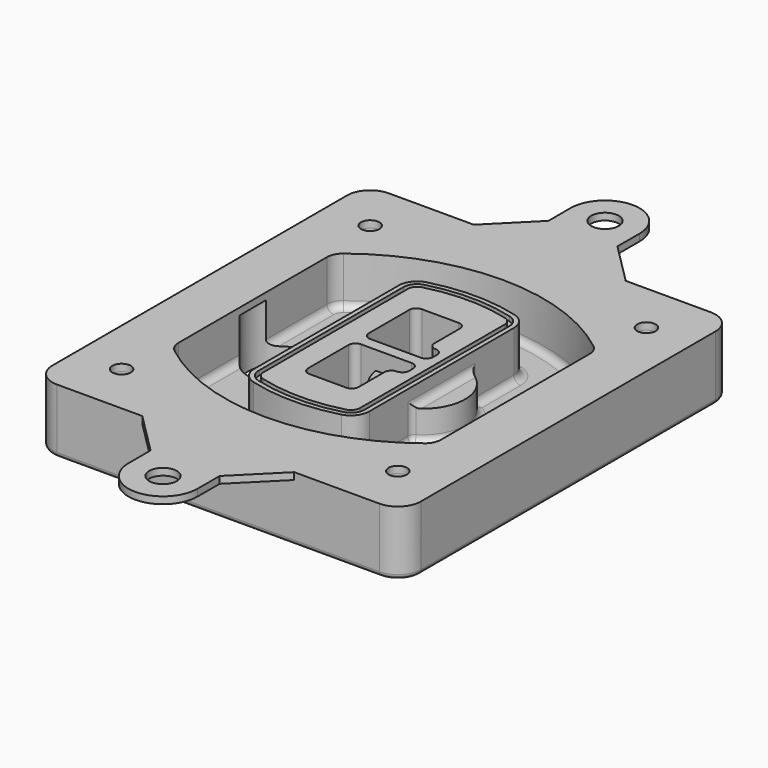
from build123d import *

# Parameters (mm, degrees)
F0_R      = 4
F1_DEPTH  = 25
F2_DEPTH  = 3
F3_DEPTH  = 18
F5_DEPTH  = 21
F6_DEPTH  = 2
F8_DEPTH  = 20
F9_DEPTH  = 16
F10_DEPTH = 25
F7_R      = 6
F7_R_2    = 4
F11_DEPTH = 6
F13_DEPTH = 9
F14_R     = 3
F15_R     = 2
F16_R     = 6
F16_R_2   = 4
F17_DEPTH = 3


with BuildPart() as f1:
    # F0 (on Top) → F1 (new body)
    with BuildSketch(Plane.XY):
        with BuildLine():
            ThreePointArc((-80, -80), (-77.0710678119, -87.0710678119), (-70, -90))
            Line((-70, -90), (70, -90))
            ThreePointArc((70, -90), (77.0710678119, -87.0710678119), (80, -80))
            Line((80, -80), (80, 80))
            ThreePointArc((80, 80), (77.0710678119, 87.0710678119), (70, 90))
            Line((70, 90), (-70, 90))
            ThreePointArc((-70, 90), (-77.0710678119, 87.0710678119), (-80, 80))
            Line((-80, 80), (-80, -80))
        make_face()
        with Locations((-60, -67.5)):
            Circle(F0_R, mode=Mode.SUBTRACT)
        with Locations((60, -67.5)):
            Circle(F0_R, mode=Mode.SUBTRACT)
        with Locations((-60, 67.5)):
            Circle(F0_R, mode=Mode.SUBTRACT)
        with BuildLine():
            ThreePointArc((-64, 40.2934422872), (-62.5820384798, 46.4328484224), (-58.6153846154, 51.3286200352))
            ThreePointArc((-58.6153846154, 51.3286200352), (0, 71.5), (58.6153846154, 51.3286200352))
            ThreePointArc((58.6153846154, 51.3286200352), (62.5820384798, 46.4328484224), (64, 40.2934422872))
            Line((64, 40.2934422872), (64, -40.2934422872))
            ThreePointArc((64, -40.2934422872), (62.5820384798, -46.4328484224), (58.6153846154, -51.3286200352))
            ThreePointArc((58.6153846154, -51.3286200352), (0, -71.5), (-58.6153846154, -51.3286200352))
            ThreePointArc((-58.6153846154, -51.3286200352), (-62.5820384798, -46.4328484224), (-64, -40.2934422872))
            Line((-64, -40.2934422872), (-64, 40.2934422872))
        make_face(mode=Mode.SUBTRACT)
        with Locations((60, 67.5)):
            Circle(F0_R, mode=Mode.SUBTRACT)
        with BuildLine():
            ThreePointArc((58.6153846154, 51.3286200352), (0, 71.5), (-58.6153846154, 51.3286200352))
            ThreePointArc((-58.6153846154, 51.3286200352), (-62.5820384798, 46.4328484224), (-64, 40.2934422872))
            Line((-64, 40.2934422872), (-64, -40.2934422872))
            ThreePointArc((-64, -40.2934422872), (-62.5820384798, -46.4328484224), (-58.6153846154, -51.3286200352))
            ThreePointArc((-58.6153846154, -51.3286200352), (0, -71.5), (58.6153846154, -51.3286200352))
            ThreePointArc((58.6153846154, -51.3286200352), (62.5820384798, -46.4328484224), (64, -40.2934422872))
            Line((64, -40.2934422872), (64, 40.2934422872))
            ThreePointArc((64, 40.2934422872), (62.5820384798, 46.4328484224), (58.6153846154, 51.3286200352))
        make_face()
        with BuildLine():
            Line((-60, -40.2934422872), (-60, 40.2934422872))
            ThreePointArc((-60, 40.2934422872), (-58.9871703427, 44.6787323838), (-56.1538461538, 48.1757121072))
            ThreePointArc((-56.1538461538, 48.1757121072), (0, 67.5), (56.1538461538, 48.1757121072))
            ThreePointArc((56.1538461538, 48.1757121072), (58.9871703427, 44.6787323838), (60, 40.2934422872))
            Line((60, 40.2934422872), (60, -40.2934422872))
            ThreePointArc((60, -40.2934422872), (58.9871703427, -44.6787323838), (56.1538461538, -48.1757121072))
            ThreePointArc((56.1538461538, -48.1757121072), (0, -67.5), (-56.1538461538, -48.1757121072))
            ThreePointArc((-56.1538461538, -48.1757121072), (-58.9871703427, -44.6787323838), (-60, -40.2934422872))
        make_face(mode=Mode.SUBTRACT)
        with BuildLine():
            ThreePointArc((-56.1538461538, 48.1757121072), (-58.9871703427, 44.6787323838), (-60, 40.2934422872))
            Line((-60, 40.2934422872), (-60, -40.2934422872))
            ThreePointArc((-60, -40.2934422872), (-58.9871703427, -44.6787323838), (-56.1538461538, -48.1757121072))
            ThreePointArc((-56.1538461538, -48.1757121072), (0, -67.5), (56.1538461538, -48.1757121072))
            ThreePointArc((56.1538461538, -48.1757121072), (58.9871703427, -44.6787323838), (60, -40.2934422872))
            Line((60, -40.2934422872), (60, 40.2934422872))
            ThreePointArc((60, 40.2934422872), (58.9871703427, 44.6787323838), (56.1538461538, 48.1757121072))
            ThreePointArc((56.1538461538, 48.1757121072), (0, 67.5), (-56.1538461538, 48.1757121072))
        make_face()
        with BuildLine():
            ThreePointArc((54.3076923077, 45.8110311612), (56.2910192399, 43.3631453548), (57, 40.2934422872))
            Line((57, 40.2934422872), (57, -40.2934422872))
            ThreePointArc((57, -40.2934422872), (56.2910192399, -43.3631453548), (54.3076923077, -45.8110311612))
            ThreePointArc((54.3076923077, -45.8110311612), (0, -64.5), (-54.3076923077, -45.8110311612))
            ThreePointArc((-54.3076923077, -45.8110311612), (-56.2910192399, -43.3631453548), (-57, -40.2934422872))
            Line((-57, -40.2934422872), (-57, 40.2934422872))
            ThreePointArc((-57, 40.2934422872), (-56.2910192399, 43.3631453548), (-54.3076923077, 45.8110311612))
            ThreePointArc((-54.3076923077, 45.8110311612), (0, 64.5), (54.3076923077, 45.8110311612))
        make_face(mode=Mode.SUBTRACT)
        with BuildLine():
            Line((57, -40.2934422872), (57, 40.2934422872))
            ThreePointArc((57, 40.2934422872), (56.2910192399, 43.3631453548), (54.3076923077, 45.8110311612))
            ThreePointArc((54.3076923077, 45.8110311612), (0, 64.5), (-54.3076923077, 45.8110311612))
            ThreePointArc((-54.3076923077, 45.8110311612), (-56.2910192399, 43.3631453548), (-57, 40.2934422872))
            Line((-57, 40.2934422872), (-57, -40.2934422872))
            ThreePointArc((-57, -40.2934422872), (-56.2910192399, -43.3631453548), (-54.3076923077, -45.8110311612))
            ThreePointArc((-54.3076923077, -45.8110311612), (0, -64.5), (54.3076923077, -45.8110311612))
            ThreePointArc((54.3076923077, -45.8110311612), (56.2910192399, -43.3631453548), (57, -40.2934422872))
        make_face()
    extrude(amount=-F1_DEPTH)

    # F0 (on Top) → F2 (join)
    with BuildSketch(Plane.XY):
        with BuildLine():
            ThreePointArc((-56.1538461538, 48.1757121072), (-58.9871703427, 44.6787323838), (-60, 40.2934422872))
            Line((-60, 40.2934422872), (-60, -40.2934422872))
            ThreePointArc((-60, -40.2934422872), (-58.9871703427, -44.6787323838), (-56.1538461538, -48.1757121072))
            ThreePointArc((-56.1538461538, -48.1757121072), (0, -67.5), (56.1538461538, -48.1757121072))
            ThreePointArc((56.1538461538, -48.1757121072), (58.9871703427, -44.6787323838), (60, -40.2934422872))
            Line((60, -40.2934422872), (60, 40.2934422872))
            ThreePointArc((60, 40.2934422872), (58.9871703427, 44.6787323838), (56.1538461538, 48.1757121072))
            ThreePointArc((56.1538461538, 48.1757121072), (0, 67.5), (-56.1538461538, 48.1757121072))
        make_face()
        with BuildLine():
            ThreePointArc((54.3076923077, 45.8110311612), (56.2910192399, 43.3631453548), (57, 40.2934422872))
            Line((57, 40.2934422872), (57, -40.2934422872))
            ThreePointArc((57, -40.2934422872), (56.2910192399, -43.3631453548), (54.3076923077, -45.8110311612))
            ThreePointArc((54.3076923077, -45.8110311612), (0, -64.5), (-54.3076923077, -45.8110311612))
            ThreePointArc((-54.3076923077, -45.8110311612), (-56.2910192399, -43.3631453548), (-57, -40.2934422872))
            Line((-57, -40.2934422872), (-57, 40.2934422872))
            ThreePointArc((-57, 40.2934422872), (-56.2910192399, 43.3631453548), (-54.3076923077, 45.8110311612))
            ThreePointArc((-54.3076923077, 45.8110311612), (0, 64.5), (54.3076923077, 45.8110311612))
        make_face(mode=Mode.SUBTRACT)
    extrude(amount=F2_DEPTH)

    # F0 (on Top) → F3 (cut)
    with BuildSketch(Plane.XY):
        with BuildLine():
            Line((57, -40.2934422872), (57, 40.2934422872))
            ThreePointArc((57, 40.2934422872), (56.2910192399, 43.3631453548), (54.3076923077, 45.8110311612))
            ThreePointArc((54.3076923077, 45.8110311612), (0, 64.5), (-54.3076923077, 45.8110311612))
            ThreePointArc((-54.3076923077, 45.8110311612), (-56.2910192399, 43.3631453548), (-57, 40.2934422872))
            Line((-57, 40.2934422872), (-57, -40.2934422872))
            ThreePointArc((-57, -40.2934422872), (-56.2910192399, -43.3631453548), (-54.3076923077, -45.8110311612))
            ThreePointArc((-54.3076923077, -45.8110311612), (0, -64.5), (54.3076923077, -45.8110311612))
            ThreePointArc((54.3076923077, -45.8110311612), (56.2910192399, -43.3631453548), (57, -40.2934422872))
        make_face()
    extrude(amount=-F3_DEPTH, mode=Mode.SUBTRACT)

    # F4 (on face) → F5 (join, through all)
    with BuildSketch(Plane.XY.offset(3)):
        with BuildLine():
            ThreePointArc((-25, -39.2465276821), (-23.3511545998, -44.1109737193), (-19.0842911877, -46.9702398883))
            ThreePointArc((-19.0842911877, -46.9702398883), (0, -49.5), (19.0842911877, -46.9702398883))
            ThreePointArc((19.0842911877, -46.9702398883), (23.3511545998, -44.1109737193), (25, -39.2465276821))
            Line((25, -39.2465276821), (25, 39.2465276821))
            ThreePointArc((25, 39.2465276821), (23.3511545998, 44.1109737193), (19.0842911877, 46.9702398883))
            ThreePointArc((19.0842911877, 46.9702398883), (0, 49.5), (-19.0842911877, 46.9702398883))
            ThreePointArc((-19.0842911877, 46.9702398883), (-23.3511545998, 44.1109737193), (-25, 39.2465276821))
            Line((-25, 39.2465276821), (-25, -39.2465276821))
        make_face()
        with BuildLine():
            ThreePointArc((18.5632183908, 45.0393118368), (21.7633659499, 42.89486221), (23, 39.2465276821))
            Line((23, 39.2465276821), (23, -39.2465276821))
            ThreePointArc((23, -39.2465276821), (21.7633659499, -42.89486221), (18.5632183908, -45.0393118368))
            ThreePointArc((18.5632183908, -45.0393118368), (0, -47.5), (-18.5632183908, -45.0393118368))
            ThreePointArc((-18.5632183908, -45.0393118368), (-21.7633659499, -42.89486221), (-23, -39.2465276821))
            Line((-23, -39.2465276821), (-23, 39.2465276821))
            ThreePointArc((-23, 39.2465276821), (-21.7633659499, 42.89486221), (-18.5632183908, 45.0393118368))
            ThreePointArc((-18.5632183908, 45.0393118368), (0, 47.5), (18.5632183908, 45.0393118368))
        make_face(mode=Mode.SUBTRACT)
        with BuildLine():
            Line((23, -39.2465276821), (23, 39.2465276821))
            ThreePointArc((23, 39.2465276821), (21.7633659499, 42.89486221), (18.5632183908, 45.0393118368))
            ThreePointArc((18.5632183908, 45.0393118368), (0, 47.5), (-18.5632183908, 45.0393118368))
            ThreePointArc((-18.5632183908, 45.0393118368), (-21.7633659499, 42.89486221), (-23, 39.2465276821))
            Line((-23, 39.2465276821), (-23, -39.2465276821))
            ThreePointArc((-23, -39.2465276821), (-21.7633659499, -42.89486221), (-18.5632183908, -45.0393118368))
            ThreePointArc((-18.5632183908, -45.0393118368), (0, -47.5), (18.5632183908, -45.0393118368))
            ThreePointArc((18.5632183908, -45.0393118368), (21.7633659499, -42.89486221), (23, -39.2465276821))
        make_face()
        with BuildLine():
            ThreePointArc((18.0421455939, 43.1083837852), (20.1755772999, 41.6787507007), (21, 39.2465276821))
            Line((21, 39.2465276821), (21, -39.2465276821))
            ThreePointArc((21, -39.2465276821), (20.1755772999, -41.6787507007), (18.0421455939, -43.1083837852))
            ThreePointArc((18.0421455939, -43.1083837852), (0, -45.5), (-18.0421455939, -43.1083837852))
            ThreePointArc((-18.0421455939, -43.1083837852), (-20.1755772999, -41.6787507007), (-21, -39.2465276821))
            Line((-21, -39.2465276821), (-21, 39.2465276821))
            ThreePointArc((-21, 39.2465276821), (-20.1755772999, 41.6787507007), (-18.0421455939, 43.1083837852))
            ThreePointArc((-18.0421455939, 43.1083837852), (0, 45.5), (18.0421455939, 43.1083837852))
        make_face(mode=Mode.SUBTRACT)
        with BuildLine():
            Line((21, -39.2465276821), (21, 39.2465276821))
            ThreePointArc((21, 39.2465276821), (20.1755772999, 41.6787507007), (18.0421455939, 43.1083837852))
            ThreePointArc((18.0421455939, 43.1083837852), (0, 45.5), (-18.0421455939, 43.1083837852))
            ThreePointArc((-18.0421455939, 43.1083837852), (-20.1755772999, 41.6787507007), (-21, 39.2465276821))
            Line((-21, 39.2465276821), (-21, -39.2465276821))
            ThreePointArc((-21, -39.2465276821), (-20.1755772999, -41.6787507007), (-18.0421455939, -43.1083837852))
            ThreePointArc((-18.0421455939, -43.1083837852), (0, -45.5), (18.0421455939, -43.1083837852))
            ThreePointArc((18.0421455939, -43.1083837852), (20.1755772999, -41.6787507007), (21, -39.2465276821))
        make_face()
        with BuildLine():
            Line((-8, -2.5), (14, -2.5))
            ThreePointArc((14, -2.5), (16.1213203436, -3.3786796564), (17, -5.5))
            Line((17, -5.5), (17, -7.5))
            ThreePointArc((17, -7.5), (16.1213203436, -9.6213203436), (14, -10.5))
            ThreePointArc((14, -10.5), (11.8786796564, -11.3786796564), (11, -13.5))
            Line((11, -13.5), (11, -27.5))
            ThreePointArc((11, -27.5), (10.1213203436, -29.6213203436), (8, -30.5))
            Line((8, -30.5), (-8, -30.5))
            ThreePointArc((-8, -30.5), (-10.1213203436, -29.6213203436), (-11, -27.5))
            Line((-11, -27.5), (-11, -5.5))
            ThreePointArc((-11, -5.5), (-10.1213203436, -3.3786796564), (-8, -2.5))
        make_face(mode=Mode.SUBTRACT)
        with BuildLine():
            ThreePointArc((-8, 2.5), (-10.1213203436, 3.3786796564), (-11, 5.5))
            Line((-11, 5.5), (-11, 27.5))
            ThreePointArc((-11, 27.5), (-10.1213203436, 29.6213203436), (-8, 30.5))
            Line((-8, 30.5), (8, 30.5))
            ThreePointArc((8, 30.5), (10.1213203436, 29.6213203436), (11, 27.5))
            Line((11, 27.5), (11, 13.5))
            ThreePointArc((11, 13.5), (11.8786796564, 11.3786796564), (14, 10.5))
            ThreePointArc((14, 10.5), (16.1213203436, 9.6213203436), (17, 7.5))
            Line((17, 7.5), (17, 5.5))
            ThreePointArc((17, 5.5), (16.1213203436, 3.3786796564), (14, 2.5))
            Line((14, 2.5), (-8, 2.5))
        make_face(mode=Mode.SUBTRACT)
    extrude(amount=-F5_DEPTH)

    # F4 (on face) → F6 (cut)
    with BuildSketch(Plane.XY.offset(3)):
        with BuildLine():
            Line((23, -39.2465276821), (23, 39.2465276821))
            ThreePointArc((23, 39.2465276821), (21.7633659499, 42.89486221), (18.5632183908, 45.0393118368))
            ThreePointArc((18.5632183908, 45.0393118368), (0, 47.5), (-18.5632183908, 45.0393118368))
            ThreePointArc((-18.5632183908, 45.0393118368), (-21.7633659499, 42.89486221), (-23, 39.2465276821))
            Line((-23, 39.2465276821), (-23, -39.2465276821))
            ThreePointArc((-23, -39.2465276821), (-21.7633659499, -42.89486221), (-18.5632183908, -45.0393118368))
            ThreePointArc((-18.5632183908, -45.0393118368), (0, -47.5), (18.5632183908, -45.0393118368))
            ThreePointArc((18.5632183908, -45.0393118368), (21.7633659499, -42.89486221), (23, -39.2465276821))
        make_face()
        with BuildLine():
            ThreePointArc((18.0421455939, 43.1083837852), (20.1755772999, 41.6787507007), (21, 39.2465276821))
            Line((21, 39.2465276821), (21, -39.2465276821))
            ThreePointArc((21, -39.2465276821), (20.1755772999, -41.6787507007), (18.0421455939, -43.1083837852))
            ThreePointArc((18.0421455939, -43.1083837852), (0, -45.5), (-18.0421455939, -43.1083837852))
            ThreePointArc((-18.0421455939, -43.1083837852), (-20.1755772999, -41.6787507007), (-21, -39.2465276821))
            Line((-21, -39.2465276821), (-21, 39.2465276821))
            ThreePointArc((-21, 39.2465276821), (-20.1755772999, 41.6787507007), (-18.0421455939, 43.1083837852))
            ThreePointArc((-18.0421455939, 43.1083837852), (0, 45.5), (18.0421455939, 43.1083837852))
        make_face(mode=Mode.SUBTRACT)
    extrude(amount=-F6_DEPTH, mode=Mode.SUBTRACT)

    # F7 (on face) → F8 (join)
    with BuildSketch(Plane(origin=(0, 0, -25), x_dir=(1, 0, 0), z_dir=(0, 0, -1))):
        with BuildLine():
            ThreePointArc((3.28842436, 0), (16.7567035675, 13.4682792075), (30.224982775, 0))
            Line((30.224982775, 0), (35.224982775, 0))
            ThreePointArc((35.224982775, 0), (16.7567035675, 18.4682792075), (-1.71157564, 0))
            Line((-1.71157564, 0), (3.28842436, 0))
        make_face()
        with BuildLine():
            Line((3.28842436, 0), (30.224982775, 0))
            ThreePointArc((30.224982775, 0), (16.7567035675, 13.4682792075), (3.28842436, 0))
        make_face()
        with BuildLine():
            ThreePointArc((3.28842436, 0), (16.7567035675, -13.4682792075), (30.224982775, 0))
            Line((30.224982775, 0), (3.28842436, 0))
        make_face()
        with BuildLine():
            Line((35.224982775, 0), (30.224982775, 0))
            ThreePointArc((30.224982775, 0), (16.7567035675, -13.4682792075), (3.28842436, 0))
            Line((3.28842436, 0), (-1.71157564, 0))
            ThreePointArc((-1.71157564, 0), (16.7567035675, -18.4682792075), (35.224982775, 0))
        make_face()
    extrude(amount=-F8_DEPTH)

    # F7 (on face) → F9 (cut)
    with BuildSketch(Plane(origin=(0, 0, -25), x_dir=(1, 0, 0), z_dir=(0, 0, -1))):
        with BuildLine():
            Line((3.28842436, 0), (30.224982775, 0))
            ThreePointArc((30.224982775, 0), (16.7567035675, 13.4682792075), (3.28842436, 0))
        make_face()
        with BuildLine():
            ThreePointArc((3.28842436, 0), (16.7567035675, -13.4682792075), (30.224982775, 0))
            Line((30.224982775, 0), (3.28842436, 0))
        make_face()
    extrude(amount=-F9_DEPTH, mode=Mode.SUBTRACT)

    # F7 (on face) → F10 (cut)
    with BuildSketch(Plane(origin=(0, 0, -25), x_dir=(1, 0, 0), z_dir=(0, 0, -1))):
        with BuildLine():
            Line((-59.0318229325, 0), (-32.0952645175, 0))
            ThreePointArc((-32.0952645175, 0), (-45.563543725, 13.4682792075), (-59.0318229325, 0))
        make_face()
        with BuildLine():
            ThreePointArc((-59.0318229325, 0), (-45.563543725, -13.4682792075), (-32.0952645175, 0))
            Line((-32.0952645175, 0), (-59.0318229325, 0))
        make_face()
    extrude(amount=-F10_DEPTH, mode=Mode.SUBTRACT)

    # F7 (on face) → F11 (cut)
    with BuildSketch(Plane(origin=(0, 0, -25), x_dir=(1, 0, 0), z_dir=(0, 0, -1))):
        with Locations((60, -67.5)):
            Circle(F7_R)
        with Locations((60, -67.5)):
            Circle(F7_R_2, mode=Mode.SUBTRACT)
        with Locations((60, -67.5)):
            Circle(F7_R)
        with Locations((60, -67.5)):
            Circle(F7_R_2, mode=Mode.SUBTRACT)
        with Locations((-60, -67.5)):
            Circle(F7_R)
        with Locations((-60, -67.5)):
            Circle(F7_R_2, mode=Mode.SUBTRACT)
        with Locations((-60, -67.5)):
            Circle(F7_R)
        with Locations((-60, -67.5)):
            Circle(F7_R_2, mode=Mode.SUBTRACT)
        with Locations((-60, 67.5)):
            Circle(F7_R)
        with Locations((-60, 67.5)):
            Circle(F7_R_2, mode=Mode.SUBTRACT)
        with Locations((-60, 67.5)):
            Circle(F7_R)
        with Locations((-60, 67.5)):
            Circle(F7_R_2, mode=Mode.SUBTRACT)
        with Locations((60, 67.5)):
            Circle(F7_R)
        with Locations((60, 67.5)):
            Circle(F7_R_2, mode=Mode.SUBTRACT)
        with Locations((60, 67.5)):
            Circle(F7_R)
        with Locations((60, 67.5)):
            Circle(F7_R_2, mode=Mode.SUBTRACT)
    extrude(amount=-F11_DEPTH, mode=Mode.SUBTRACT)

    # F12 (on face) → F13 (cut, through all)
    with BuildSketch(Plane(origin=(0, 0, -9), x_dir=(1, 0, 0), z_dir=(0, 0, -1))):
        with BuildLine():
            Line((11, 13.5), (11, 17.5481537753))
            ThreePointArc((11, 17.5481537753), (2.5696536419, 11.8239143813), (-1.5415842455, 2.5))
            Line((-1.5415842455, 2.5), (3.5224848595, 2.5))
            ThreePointArc((3.5224848595, 2.5), (6.1857188154, 8.3455872281), (11.2536447004, 12.2927168648))
            ThreePointArc((11.2536447004, 12.2927168648), (11.0640958889, 12.8831798879), (11, 13.5))
        make_face()
        with BuildLine():
            ThreePointArc((11.2536447004, -12.2927168648), (6.1857188154, -8.3455872281), (3.5224848595, -2.5))
            Line((3.5224848595, -2.5), (-1.5415842455, -2.5))
            ThreePointArc((-1.5415842455, -2.5), (2.5696536419, -11.8239143813), (11, -17.5481537753))
            Line((11, -17.5481537753), (11, -13.5))
            ThreePointArc((11, -13.5), (11.0640958889, -12.8831798879), (11.2536447004, -12.2927168648))
        make_face()
        with BuildLine():
            ThreePointArc((11.2536447004, 12.2927168648), (6.1857188154, 8.3455872281), (3.5224848595, 2.5))
            Line((3.5224848595, 2.5), (14, 2.5))
            ThreePointArc((14, 2.5), (16.1213203436, 3.3786796564), (17, 5.5))
            Line((17, 5.5), (17, 7.5))
            ThreePointArc((17, 7.5), (16.1213203436, 9.6213203436), (14, 10.5))
            ThreePointArc((14, 10.5), (12.3601599782, 10.9878446101), (11.2536447004, 12.2927168648))
        make_face()
        with BuildLine():
            Line((14, -2.5), (3.5224848595, -2.5))
            ThreePointArc((3.5224848595, -2.5), (6.1857188154, -8.3455872281), (11.2536447004, -12.2927168648))
            ThreePointArc((11.2536447004, -12.2927168648), (12.3601599782, -10.9878446101), (14, -10.5))
            ThreePointArc((14, -10.5), (16.1213203436, -9.6213203436), (17, -7.5))
            Line((17, -7.5), (17, -5.5))
            ThreePointArc((17, -5.5), (16.1213203436, -3.3786796564), (14, -2.5))
        make_face()
    extrude(amount=F13_DEPTH, mode=Mode.SUBTRACT)

    # F14
    f14_edges = [f1.edges().sort_by_distance(p)[0] for p in [
        (-57, -23.703476, -18),
        (-57, 23.703476, -18),
        (25, 0, -5),
        (25, 16.526506, -11.5),
        (25, -16.526506, -11.5),
        (25, -27.886517, -18),
        (35.224983, 0, -18),
    ]]
    fillet(f14_edges, radius=F14_R)

    # F15
    f15_edges = [f1.edges().sort_by_distance(p)[0] for p in [
        (0, -90, -25),
    ]]
    fillet(f15_edges, radius=F15_R)

    # F16 (on face) → F17 (join, through all)
    with BuildSketch(Plane.XY):
        with BuildLine():
            Line((15, -108), (33, -90))
            Line((33, -90), (-33, -90))
            Line((-33, -90), (-15, -108))
            Line((-15, -108), (-15, -120))
            ThreePointArc((-15, -120), (0, -135), (15, -120))
            Line((15, -120), (15, -108))
        make_face()
        with Locations((0, -120)):
            Circle(F16_R, mode=Mode.SUBTRACT)
        with BuildLine():
            Line((15, 108), (15, 120))
            ThreePointArc((15, 120), (0, 135), (-15, 120))
            Line((-15, 120), (-15, 108))
            Line((-15, 108), (-33, 90))
            Line((-33, 90), (33, 90))
            Line((33, 90), (15, 108))
        make_face()
        with Locations((0, 120)):
            Circle(F16_R, mode=Mode.SUBTRACT)
        with BuildLine():
            Line((70, 90), (33, 90))
            Line((33, 90), (-33, 90))
            Line((-33, 90), (-70, 90))
            ThreePointArc((-70, 90), (-77.0710678119, 87.0710678119), (-80, 80))
            Line((-80, 80), (-80, -80))
            ThreePointArc((-80, -80), (-77.0710678119, -87.0710678119), (-70, -90))
            Line((-70, -90), (-33, -90))
            Line((-33, -90), (33, -90))
            Line((33, -90), (70, -90))
            ThreePointArc((70, -90), (77.0710678119, -87.0710678119), (80, -80))
            Line((80, -80), (80, 80))
            ThreePointArc((80, 80), (77.0710678119, 87.0710678119), (70, 90))
        make_face()
        with Locations((-60, -67.5)):
            Circle(F16_R_2, mode=Mode.SUBTRACT)
        with Locations((60, -67.5)):
            Circle(F16_R_2, mode=Mode.SUBTRACT)
        with Locations((-60, 67.5)):
            Circle(F16_R_2, mode=Mode.SUBTRACT)
        with BuildLine():
            ThreePointArc((-60, 40.2934422872), (-58.9871703427, 44.6787323838), (-56.1538461538, 48.1757121072))
            ThreePointArc((-56.1538461538, 48.1757121072), (0, 67.5), (56.1538461538, 48.1757121072))
            ThreePointArc((56.1538461538, 48.1757121072), (58.9871703427, 44.6787323838), (60, 40.2934422872))
            Line((60, 40.2934422872), (60, -40.2934422872))
            ThreePointArc((60, -40.2934422872), (58.9871703427, -44.6787323838), (56.1538461538, -48.1757121072))
            ThreePointArc((56.1538461538, -48.1757121072), (0, -67.5), (-56.1538461538, -48.1757121072))
            ThreePointArc((-56.1538461538, -48.1757121072), (-58.9871703427, -44.6787323838), (-60, -40.2934422872))
            Line((-60, -40.2934422872), (-60, 40.2934422872))
        make_face(mode=Mode.SUBTRACT)
        with Locations((60, 67.5)):
            Circle(F16_R_2, mode=Mode.SUBTRACT)
    extrude(amount=F17_DEPTH)


solid = f1.part
